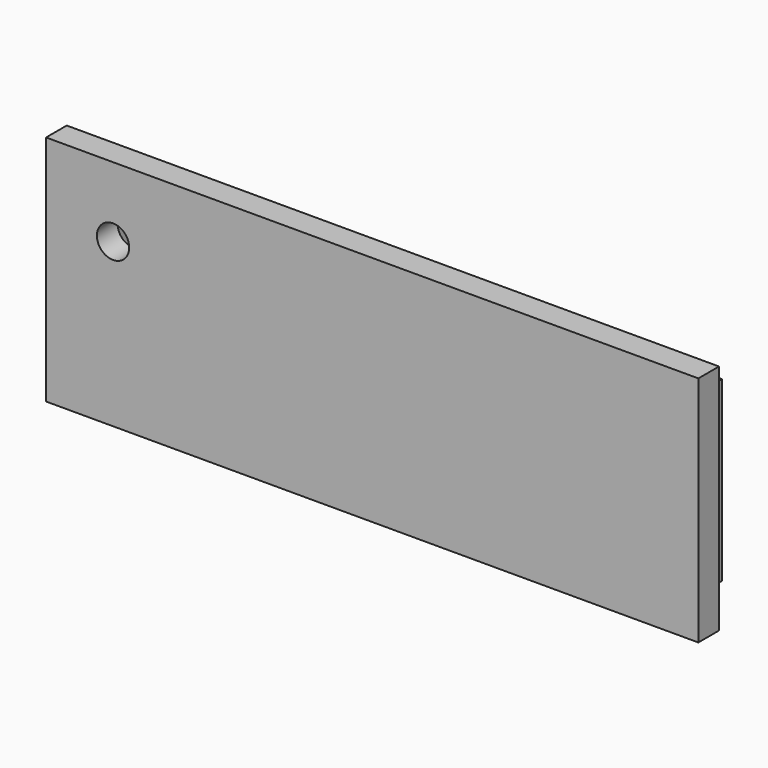
from build123d import *

# Parameters (mm, degrees)
F0_W      = 101
F0_H      = 36
F0_W_2    = 95.5
F0_H_2    = 27.5
F0_W_3    = 87.5
F0_H_3    = 19.5
F1_DEPTH  = 4
F1_FACE_W = 101
F1_FACE_H = 36
F2_W      = 95.5
F2_H      = 27.5
F2_W_2    = 87.5
F2_H_2    = 19.5
F3_DEPTH  = 4
F5_D      = 5
F5_DEPTH  = 6
F5_TIP    = 1.5021515476


with BuildPart() as f1:
    # F0 (on Front) → F1 (new body)
    with BuildSketch(Plane.XZ):
        Rectangle(F0_W, F0_H)
        Rectangle(F0_W_2, F0_H_2, mode=Mode.SUBTRACT)
        Rectangle(F0_W_2, F0_H_2)
        Rectangle(F0_W_3, F0_H_3, mode=Mode.SUBTRACT)
        Rectangle(F0_W_3, F0_H_3)
    extrude(amount=F1_DEPTH)

    # F1_face (on face) + F2 (on Front) → F3 (join)
    with BuildSketch(Plane.XZ.offset(4)):
        Rectangle(F1_FACE_W, F1_FACE_H)
    with BuildSketch(Plane.XZ):
        Rectangle(F2_W, F2_H)
        Rectangle(F2_W_2, F2_H_2, mode=Mode.SUBTRACT)
    extrude(amount=-F3_DEPTH)

    # F5
    with Locations(Plane(origin=(0, 0, 0), x_dir=(1, 0, 0), z_dir=(0, 1, 0))):
        with Locations((-40.1297956705, -7.1705272421)):
            Hole(F5_D / 2, depth=F5_DEPTH)
            with Locations((0, 0, -(F5_DEPTH + F5_TIP / 2))):  # 118° drill point
                Cone(0, F5_D / 2, F5_TIP, mode=Mode.SUBTRACT)


solid = f1.part
